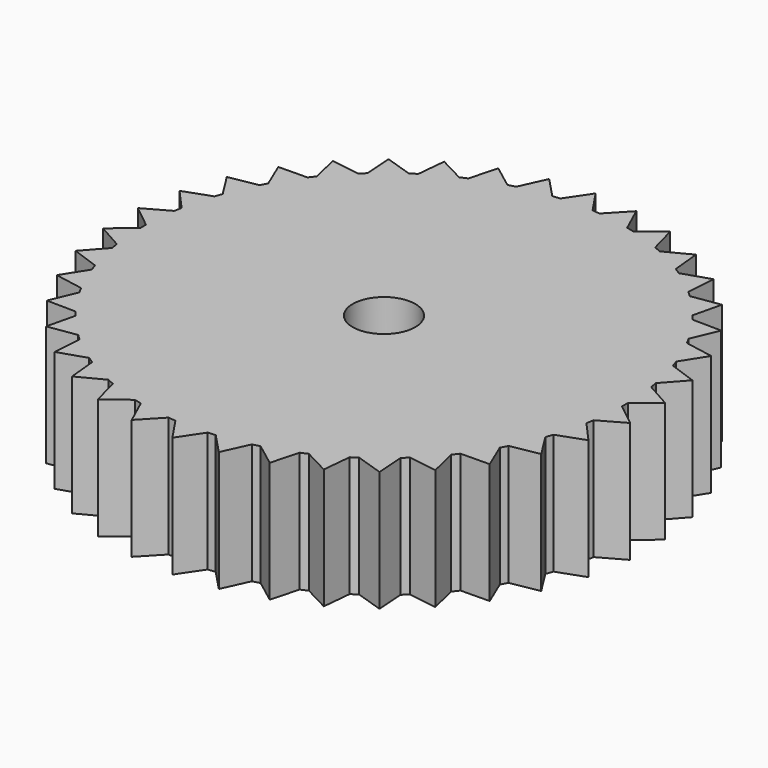
from build123d import *

# Parameters (mm, degrees)
F0_R     = 3.302
F1_DEPTH = 12.7


with BuildPart() as f1:
    # F0 (on Top) → F1 (new body)
    with BuildSketch(Plane.XY):
        with BuildLine():
            ThreePointArc((25.39692, -0.395572), (25.39923, -0.197792), (25.4, 0))
            ThreePointArc((25.4, 0), (25.39923, 0.197792), (25.39692, 0.395572))
            ThreePointArc((25.39692, 0.395572), (25.313246, 2.097515), (25.115648, 3.790019))
            ThreePointArc((25.115648, 3.790019), (25.053577, 4.180703), (24.98543, 4.570373))
            ThreePointArc((24.98543, 4.570373), (24.622767, 6.235331), (24.149286, 7.872227))
            ThreePointArc((24.149286, 7.872227), (24.023758, 8.247367), (23.892402, 8.620505))
            ThreePointArc((23.892402, 8.620505), (23.260642, 10.203064), (22.524196, 11.739702))
            ThreePointArc((22.524196, 11.739702), (22.338633, 12.089064), (22.147653, 12.435493))
            ThreePointArc((22.147653, 12.435493), (21.264029, 13.892483), (20.284703, 15.286949))
            ThreePointArc((20.284703, 15.286949), (20.044169, 15.601003), (19.798773, 15.911273))
            ThreePointArc((19.798773, 15.911273), (18.687387, 17.202952), (17.491897, 18.417207))
            ThreePointArc((17.491897, 18.417207), (17.202952, 18.687387), (16.909834, 18.953035))
            ThreePointArc((16.909834, 18.953035), (15.601003, 20.044169), (14.221958, 21.045092))
            ThreePointArc((14.221958, 21.045092), (13.892483, 21.264029), (13.559639, 21.477807))
            ThreePointArc((13.559639, 21.477807), (12.089064, 22.338633), (10.564081, 23.098922))
            ThreePointArc((10.564081, 23.098922), (10.203064, 23.260642), (9.839572, 23.416721))
            ThreePointArc((9.839572, 23.416721), (8.247367, 24.023758), (6.618043, 24.522673))
            ThreePointArc((6.618043, 24.522673), (6.235331, 24.622767), (5.851107, 24.716888))
            ThreePointArc((5.851107, 24.716888), (4.180703, 25.053577), (2.491482, 25.27751))
            ThreePointArc((2.491482, 25.27751), (2.097515, 25.313246), (1.70304, 25.342842))
            ThreePointArc((1.70304, 25.342842), (0, 25.4), (-1.70304, 25.342842))
            ThreePointArc((-1.70304, 25.342842), (-2.097515, 25.313246), (-2.491482, 25.27751))
            ThreePointArc((-2.491482, 25.27751), (-4.180703, 25.053577), (-5.851107, 24.716888))
            ThreePointArc((-5.851107, 24.716888), (-6.235331, 24.622767), (-6.618043, 24.522673))
            ThreePointArc((-6.618043, 24.522673), (-8.247367, 24.023758), (-9.839572, 23.416721))
            ThreePointArc((-9.839572, 23.416721), (-10.203064, 23.260642), (-10.564081, 23.098922))
            ThreePointArc((-10.564081, 23.098922), (-12.089064, 22.338633), (-13.559639, 21.477807))
            ThreePointArc((-13.559639, 21.477807), (-13.892483, 21.264029), (-14.221958, 21.045092))
            ThreePointArc((-14.221958, 21.045092), (-15.601003, 20.044169), (-16.909834, 18.953035))
            ThreePointArc((-16.909834, 18.953035), (-17.202952, 18.687387), (-17.491897, 18.417207))
            ThreePointArc((-17.491897, 18.417207), (-18.687387, 17.202952), (-19.798773, 15.911273))
            ThreePointArc((-19.798773, 15.911273), (-20.044169, 15.601003), (-20.284703, 15.286949))
            ThreePointArc((-20.284703, 15.286949), (-21.264029, 13.892483), (-22.147653, 12.435493))
            ThreePointArc((-22.147653, 12.435493), (-22.338633, 12.089064), (-22.524196, 11.739702))
            ThreePointArc((-22.524196, 11.739702), (-23.260642, 10.203064), (-23.892402, 8.620505))
            ThreePointArc((-23.892402, 8.620505), (-24.023758, 8.247367), (-24.149286, 7.872227))
            ThreePointArc((-24.149286, 7.872227), (-24.622767, 6.235331), (-24.98543, 4.570373))
            ThreePointArc((-24.98543, 4.570373), (-25.053577, 4.180703), (-25.115648, 3.790019))
            ThreePointArc((-25.115648, 3.790019), (-25.313246, 2.097515), (-25.39692, 0.395572))
            ThreePointArc((-25.39692, 0.395572), (-25.4, 0), (-25.39692, -0.395572))
            ThreePointArc((-25.39692, -0.395572), (-25.313246, -2.097515), (-25.115648, -3.790019))
            ThreePointArc((-25.115648, -3.790019), (-25.053577, -4.180703), (-24.98543, -4.570373))
            ThreePointArc((-24.98543, -4.570373), (-24.622767, -6.235331), (-24.149286, -7.872227))
            ThreePointArc((-24.149286, -7.872227), (-24.023758, -8.247367), (-23.892402, -8.620505))
            ThreePointArc((-23.892402, -8.620505), (-23.260642, -10.203064), (-22.524196, -11.739702))
            ThreePointArc((-22.524196, -11.739702), (-22.338633, -12.089064), (-22.147653, -12.435493))
            ThreePointArc((-22.147653, -12.435493), (-21.264029, -13.892483), (-20.284703, -15.286949))
            ThreePointArc((-20.284703, -15.286949), (-20.044169, -15.601003), (-19.798773, -15.911273))
            ThreePointArc((-19.798773, -15.911273), (-18.687387, -17.202952), (-17.491897, -18.417207))
            ThreePointArc((-17.491897, -18.417207), (-17.202952, -18.687387), (-16.909834, -18.953035))
            ThreePointArc((-16.909834, -18.953035), (-15.601003, -20.044169), (-14.221958, -21.045092))
            ThreePointArc((-14.221958, -21.045092), (-13.892483, -21.264029), (-13.559639, -21.477807))
            ThreePointArc((-13.559639, -21.477807), (-12.089064, -22.338633), (-10.564081, -23.098922))
            ThreePointArc((-10.564081, -23.098922), (-10.203064, -23.260642), (-9.839572, -23.416721))
            ThreePointArc((-9.839572, -23.416721), (-8.247367, -24.023758), (-6.618043, -24.522673))
            ThreePointArc((-6.618043, -24.522673), (-6.235331, -24.622767), (-5.851107, -24.716888))
            ThreePointArc((-5.851107, -24.716888), (-4.180703, -25.053577), (-2.491482, -25.27751))
            ThreePointArc((-2.491482, -25.27751), (-2.097515, -25.313246), (-1.70304, -25.342842))
            ThreePointArc((-1.70304, -25.342842), (0, -25.4), (1.70304, -25.342842))
            ThreePointArc((1.70304, -25.342842), (2.097515, -25.313246), (2.491482, -25.27751))
            ThreePointArc((2.491482, -25.27751), (4.180703, -25.053577), (5.851107, -24.716888))
            ThreePointArc((5.851107, -24.716888), (6.235331, -24.622767), (6.618043, -24.522673))
            ThreePointArc((6.618043, -24.522673), (8.247367, -24.023758), (9.839572, -23.416721))
            ThreePointArc((9.839572, -23.416721), (10.203064, -23.260642), (10.564081, -23.098922))
            ThreePointArc((10.564081, -23.098922), (12.089064, -22.338633), (13.559639, -21.477807))
            ThreePointArc((13.559639, -21.477807), (13.892483, -21.264029), (14.221958, -21.045092))
            ThreePointArc((14.221958, -21.045092), (15.601003, -20.044169), (16.909834, -18.953035))
            ThreePointArc((16.909834, -18.953035), (17.202952, -18.687387), (17.491897, -18.417207))
            ThreePointArc((17.491897, -18.417207), (18.687387, -17.202952), (19.798773, -15.911273))
            ThreePointArc((19.798773, -15.911273), (20.044169, -15.601003), (20.284703, -15.286949))
            ThreePointArc((20.284703, -15.286949), (21.264029, -13.892483), (22.147653, -12.435493))
            ThreePointArc((22.147653, -12.435493), (22.338633, -12.089064), (22.524196, -11.739702))
            ThreePointArc((22.524196, -11.739702), (23.260642, -10.203064), (23.892402, -8.620505))
            ThreePointArc((23.892402, -8.620505), (24.023758, -8.247367), (24.149286, -7.872227))
            ThreePointArc((24.149286, -7.872227), (24.622767, -6.235331), (24.98543, -4.570373))
            ThreePointArc((24.98543, -4.570373), (25.053577, -4.180703), (25.115648, -3.790019))
            ThreePointArc((25.115648, -3.790019), (25.313246, -2.097515), (25.39692, -0.395572))
        make_face()
        Circle(F0_R, mode=Mode.SUBTRACT)
        with BuildLine():
            Line((-27.775487, -2.301542), (-25.115648, -3.790019))
            ThreePointArc((-25.115648, -3.790019), (-25.313246, -2.097515), (-25.39692, -0.395572))
            Line((-25.39692, -0.395572), (-27.775487, -2.301542))
        make_face()
        with BuildLine():
            Line((25.523225, -11.195524), (23.892402, -8.620505))
            ThreePointArc((23.892402, -8.620505), (23.260642, -10.203064), (22.524196, -11.739702))
            Line((22.524196, -11.739702), (25.523225, -11.195524))
        make_face()
        with BuildLine():
            Line((-9.049595, -26.360569), (-6.618043, -24.522673))
            ThreePointArc((-6.618043, -24.522673), (-8.247367, -24.023758), (-9.839572, -23.416721))
            Line((-9.839572, -23.416721), (-9.049595, -26.360569))
        make_face()
        with BuildLine():
            Line((-27.017844, -6.841847), (-24.149286, -7.872227))
            ThreePointArc((-24.149286, -7.872227), (-24.622767, -6.235331), (-24.98543, -4.570373))
            Line((-24.98543, -4.570373), (-27.017844, -6.841847))
        make_face()
        with BuildLine():
            Line((4.587363, -27.490559), (5.851107, -24.716888))
            ThreePointArc((5.851107, -24.716888), (4.180703, -25.053577), (2.491482, -25.27751))
            Line((2.491482, -25.27751), (4.587363, -27.490559))
        make_face()
        with BuildLine():
            Line((27.017844, -6.841847), (24.98543, -4.570373))
            ThreePointArc((24.98543, -4.570373), (24.622767, -6.235331), (24.149286, -7.872227))
            Line((24.149286, -7.872227), (27.017844, -6.841847))
        make_face()
        with BuildLine():
            Line((-4.587363, -27.490559), (-2.491482, -25.27751))
            ThreePointArc((-2.491482, -25.27751), (-4.180703, -25.053577), (-5.851107, -24.716888))
            Line((-5.851107, -24.716888), (-4.587363, -27.490559))
        make_face()
        with BuildLine():
            Line((-25.523225, -11.195524), (-22.524196, -11.739702))
            ThreePointArc((-22.524196, -11.739702), (-23.260642, -10.203064), (-23.892402, -8.620505))
            Line((-23.892402, -8.620505), (-25.523225, -11.195524))
        make_face()
        with BuildLine():
            Line((27.775487, -2.301542), (25.39692, -0.395572))
            ThreePointArc((25.39692, -0.395572), (25.313246, -2.097515), (25.115648, -3.790019))
            Line((25.115648, -3.790019), (27.775487, -2.301542))
        make_face()
        with BuildLine():
            Line((9.049595, -26.360569), (9.839572, -23.416721))
            ThreePointArc((9.839572, -23.416721), (8.247367, -24.023758), (6.618043, -24.522673))
            Line((6.618043, -24.522673), (9.049595, -26.360569))
        make_face()
        with BuildLine():
            Line((0, -27.870679), (1.70304, -25.342842))
            ThreePointArc((1.70304, -25.342842), (0, -25.4), (-1.70304, -25.342842))
            Line((-1.70304, -25.342842), (0, -27.870679))
        make_face()
        with BuildLine():
            Line((-23.332398, -15.243817), (-20.284703, -15.286949))
            ThreePointArc((-20.284703, -15.286949), (-21.264029, -13.892483), (-22.147653, -12.435493))
            Line((-22.147653, -12.435493), (-23.332398, -15.243817))
        make_face()
        with BuildLine():
            ThreePointArc((-22.147653, 12.435493), (-21.264029, 13.892483), (-20.284703, 15.286949))
            Line((-20.284703, 15.286949), (-23.332398, 15.243817))
            Line((-23.332398, 15.243817), (-22.147653, 12.435493))
        make_face()
        with BuildLine():
            ThreePointArc((-16.909834, 18.953035), (-15.601003, 20.044169), (-14.221958, 21.045092))
            Line((-14.221958, 21.045092), (-17.118525, 21.993882))
            Line((-17.118525, 21.993882), (-16.909834, 18.953035))
        make_face()
        with BuildLine():
            ThreePointArc((-19.798773, 15.911273), (-18.687387, 17.202952), (-17.491897, 18.417207))
            Line((-17.491897, 18.417207), (-20.505125, 18.876297))
            Line((-20.505125, 18.876297), (-19.798773, 15.911273))
        make_face()
        with BuildLine():
            ThreePointArc((-23.892402, 8.620505), (-23.260642, 10.203064), (-22.524196, 11.739702))
            Line((-22.524196, 11.739702), (-25.523225, 11.195524))
            Line((-25.523225, 11.195524), (-23.892402, 8.620505))
        make_face()
        with BuildLine():
            Line((17.118525, -21.993882), (16.909834, -18.953035))
            ThreePointArc((16.909834, -18.953035), (15.601003, -20.044169), (14.221958, -21.045092))
            Line((14.221958, -21.045092), (17.118525, -21.993882))
        make_face()
        with BuildLine():
            ThreePointArc((25.115648, 3.790019), (25.313246, 2.097515), (25.39692, 0.395572))
            Line((25.39692, 0.395572), (27.775487, 2.301542))
            Line((27.775487, 2.301542), (25.115648, 3.790019))
        make_face()
        with BuildLine():
            ThreePointArc((24.149286, 7.872227), (24.622767, 6.235331), (24.98543, 4.570373))
            Line((24.98543, 4.570373), (27.017844, 6.841847))
            Line((27.017844, 6.841847), (24.149286, 7.872227))
        make_face()
        with BuildLine():
            ThreePointArc((22.524196, 11.739702), (23.260642, 10.203064), (23.892402, 8.620505))
            Line((23.892402, 8.620505), (25.523225, 11.195524))
            Line((25.523225, 11.195524), (22.524196, 11.739702))
        make_face()
        with BuildLine():
            ThreePointArc((20.284703, 15.286949), (21.264029, 13.892483), (22.147653, 12.435493))
            Line((22.147653, 12.435493), (23.332398, 15.243817))
            Line((23.332398, 15.243817), (20.284703, 15.286949))
        make_face()
        with BuildLine():
            ThreePointArc((17.491897, 18.417207), (18.687387, 17.202952), (19.798773, 15.911273))
            Line((19.798773, 15.911273), (20.505125, 18.876297))
            Line((20.505125, 18.876297), (17.491897, 18.417207))
        make_face()
        with BuildLine():
            ThreePointArc((14.221958, 21.045092), (15.601003, 20.044169), (16.909834, 18.953035))
            Line((16.909834, 18.953035), (17.118525, 21.993882))
            Line((17.118525, 21.993882), (14.221958, 21.045092))
        make_face()
        with BuildLine():
            ThreePointArc((10.564081, 23.098922), (12.089064, 22.338633), (13.559639, 21.477807))
            Line((13.559639, 21.477807), (13.264977, 24.511531))
            Line((13.264977, 24.511531), (10.564081, 23.098922))
        make_face()
        with BuildLine():
            ThreePointArc((6.618043, 24.522673), (8.247367, 24.023758), (9.839572, 23.416721))
            Line((9.839572, 23.416721), (9.049595, 26.360569))
            Line((9.049595, 26.360569), (6.618043, 24.522673))
        make_face()
        with BuildLine():
            ThreePointArc((2.491482, 25.27751), (4.180703, 25.053577), (5.851107, 24.716888))
            Line((5.851107, 24.716888), (4.587363, 27.490559))
            Line((4.587363, 27.490559), (2.491482, 25.27751))
        make_face()
        with BuildLine():
            ThreePointArc((-1.70304, 25.342842), (0, 25.4), (1.70304, 25.342842))
            Line((1.70304, 25.342842), (0, 27.870679))
            Line((0, 27.870679), (-1.70304, 25.342842))
        make_face()
        with BuildLine():
            ThreePointArc((-5.851107, 24.716888), (-4.180703, 25.053577), (-2.491482, 25.27751))
            Line((-2.491482, 25.27751), (-4.587363, 27.490559))
            Line((-4.587363, 27.490559), (-5.851107, 24.716888))
        make_face()
        with BuildLine():
            ThreePointArc((-9.839572, 23.416721), (-8.247367, 24.023758), (-6.618043, 24.522673))
            Line((-6.618043, 24.522673), (-9.049595, 26.360569))
            Line((-9.049595, 26.360569), (-9.839572, 23.416721))
        make_face()
        with BuildLine():
            ThreePointArc((-13.559639, 21.477807), (-12.089064, 22.338633), (-10.564081, 23.098922))
            Line((-10.564081, 23.098922), (-13.264977, 24.511531))
            Line((-13.264977, 24.511531), (-13.559639, 21.477807))
        make_face()
        with BuildLine():
            Line((-20.505125, -18.876297), (-17.491897, -18.417207))
            ThreePointArc((-17.491897, -18.417207), (-18.687387, -17.202952), (-19.798773, -15.911273))
            Line((-19.798773, -15.911273), (-20.505125, -18.876297))
        make_face()
        with BuildLine():
            ThreePointArc((-24.98543, 4.570373), (-24.622767, 6.235331), (-24.149286, 7.872227))
            Line((-24.149286, 7.872227), (-27.017844, 6.841847))
            Line((-27.017844, 6.841847), (-24.98543, 4.570373))
        make_face()
        with BuildLine():
            Line((20.505125, -18.876297), (19.798773, -15.911273))
            ThreePointArc((19.798773, -15.911273), (18.687387, -17.202952), (17.491897, -18.417207))
            Line((17.491897, -18.417207), (20.505125, -18.876297))
        make_face()
        with BuildLine():
            Line((-17.118525, -21.993882), (-14.221958, -21.045092))
            ThreePointArc((-14.221958, -21.045092), (-15.601003, -20.044169), (-16.909834, -18.953035))
            Line((-16.909834, -18.953035), (-17.118525, -21.993882))
        make_face()
        with BuildLine():
            ThreePointArc((-25.39692, 0.395572), (-25.313246, 2.097515), (-25.115648, 3.790019))
            Line((-25.115648, 3.790019), (-27.775487, 2.301542))
            Line((-27.775487, 2.301542), (-25.39692, 0.395572))
        make_face()
        with BuildLine():
            Line((23.332398, -15.243817), (22.147653, -12.435493))
            ThreePointArc((22.147653, -12.435493), (21.264029, -13.892483), (20.284703, -15.286949))
            Line((20.284703, -15.286949), (23.332398, -15.243817))
        make_face()
        with BuildLine():
            Line((13.264977, -24.511531), (13.559639, -21.477807))
            ThreePointArc((13.559639, -21.477807), (12.089064, -22.338633), (10.564081, -23.098922))
            Line((10.564081, -23.098922), (13.264977, -24.511531))
        make_face()
        with BuildLine():
            Line((-13.264977, -24.511531), (-10.564081, -23.098922))
            ThreePointArc((-10.564081, -23.098922), (-12.089064, -22.338633), (-13.559639, -21.477807))
            Line((-13.559639, -21.477807), (-13.264977, -24.511531))
        make_face()
    extrude(amount=F1_DEPTH)


solid = f1.part
